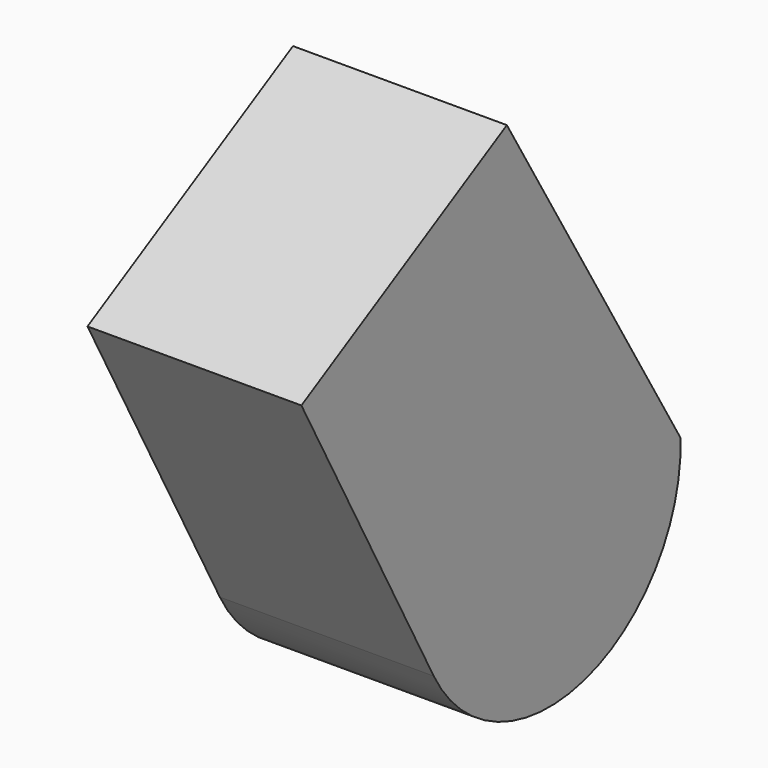
from build123d import *

# Parameters (mm, degrees)
F1_DEPTH = 25.4


with BuildPart() as f1:
    # F0 (on Right) → F1 (new body)
    with BuildSketch(Plane.YZ):
        with BuildLine():
            Line((-19.646209, 10.028909), (0, -26.251478))
            ThreePointArc((0, -26.251478), (22.291565, -35.772105), (36.625791, -16.225081))
            Line((36.625791, -16.225081), (10.852084, 26.936602))
            Line((10.852084, 26.936602), (-19.646209, 10.028909))
        make_face()
    extrude(amount=F1_DEPTH)


solid = f1.part
